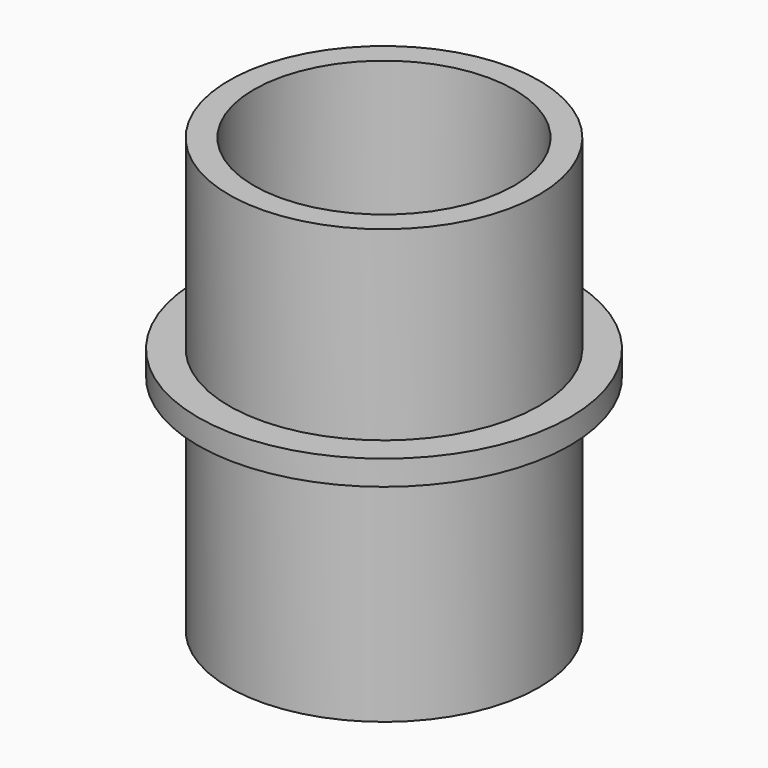
from build123d import *

# Parameters (mm, degrees)
SKETCH_R      = 30
SKETCH_R_2    = 21
PAD_DEPTH     = 4
SKETCH001_R   = 25
SKETCH001_R_2 = 21
PAD001_DEPTH  = 36
SKETCH002_R   = 25
SKETCH002_R_2 = 21
PAD002_DEPTH  = 30


with BuildPart() as part:
    # Sketch → Pad (new body)
    with BuildSketch(Plane.XY):
        Circle(SKETCH_R)
        Circle(SKETCH_R_2, mode=Mode.SUBTRACT)
    extrude(amount=PAD_DEPTH)

    # Sketch001 (on Face3 of Pad) → Pad001 (join)
    with BuildSketch(Plane(origin=(0, 0, 0), x_dir=(1, 0, 0), z_dir=(0, 0, -1))):
        Circle(SKETCH001_R)
        Circle(SKETCH001_R_2, mode=Mode.SUBTRACT)
    extrude(amount=PAD001_DEPTH)

    # Sketch002 (on Face3 of Pad001) → Pad002 (join)
    with BuildSketch(Plane.XY.offset(4)):
        Circle(SKETCH002_R)
        Circle(SKETCH002_R_2, mode=Mode.SUBTRACT)
    extrude(amount=PAD002_DEPTH)


solid = part.part
